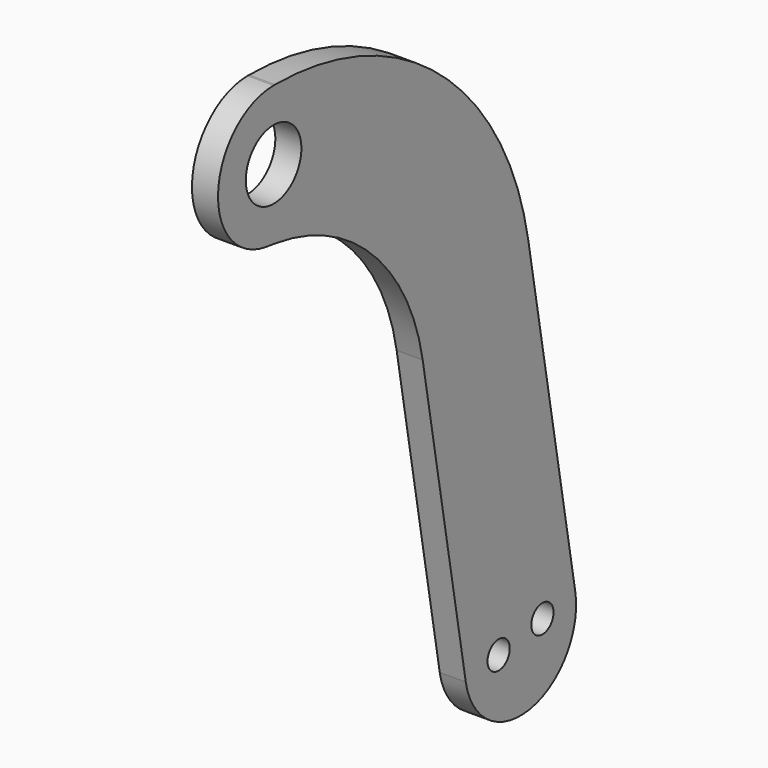
from build123d import *

# Parameters (mm, degrees)
SKETCH_R    = 4
SKETCH_R_2  = 1.6
PAD_DEPTH   = 3
FILLET_R    = 25
FILLET012_R = 37


with BuildPart() as part:
    # Sketch → Pad (new body)
    with BuildSketch(Plane.YZ):
        with BuildLine():
            ThreePointArc((0, 8), (-7.980512, 0.558052), (-1.113385, -7.922145))
            Line((-1.113385, -7.922145), (18.3, -10.650518))
            Line((27.656685, -63.714914), (18.3, -10.650518))
            ThreePointArc((27.656685, -63.714914), (36.924332, -70.20419), (43.413609, -60.936543))
            Line((31.258236, 8), (43.413609, -60.936543))
            Line((0, 8), (31.258236, 8))
        make_face()
        Circle(SKETCH_R, mode=Mode.SUBTRACT)
        with Locations((32.383762, -62.881402)):
            Circle(SKETCH_R_2, mode=Mode.SUBTRACT)
        with Locations((38.686532, -61.770054)):
            Circle(SKETCH_R_2, mode=Mode.SUBTRACT)
    extrude(amount=PAD_DEPTH)

    # Fillet
    fillet_edges = [part.edges().sort_by_distance(p)[0] for p in [
        (1.5, 18.3, -10.650518),
    ]]
    fillet(fillet_edges, radius=FILLET_R)

    # Fillet012
    fillet012_edges = [part.edges().sort_by_distance(p)[0] for p in [
        (1.5, 31.258236, 8),
    ]]
    fillet(fillet012_edges, radius=FILLET012_R)


with BuildPart() as part_1:
    # Body placement: moved
    add(part.part.moved(Location((44, 0, 0))))


solid = part_1.part
